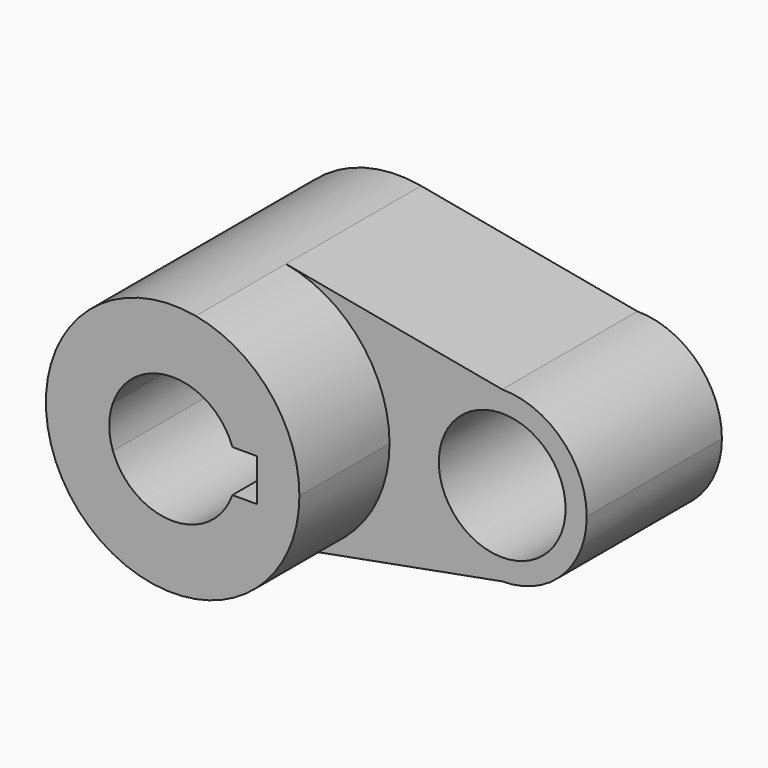
from build123d import *

# Parameters (mm, degrees)
F0_R     = 14.2875
F1_DEPTH = 38.1
F2_DEPTH = 63.5


with BuildPart() as f1:
    # F0 (on Front) → F1 (new body)
    with BuildSketch(Plane.XZ):
        with BuildLine():
            ThreePointArc((5.211817, -28.095686), (21.971098, -18.270235), (28.575, 0))
            ThreePointArc((28.575, 0), (21.971098, 18.270235), (5.211817, 28.095686))
            ThreePointArc((5.211817, 28.095686), (-28.575, 0), (5.211817, -28.095686))
        make_face()
        with BuildLine():
            ThreePointArc((-13.470384, 4.7625), (0, 14.2875), (13.470384, 4.7625))
            Line((13.470384, 4.7625), (19.05, 4.7625))
            Line((19.05, 4.7625), (19.05, -4.7625))
            Line((19.05, -4.7625), (13.470384, -4.7625))
            ThreePointArc((13.470384, -4.7625), (0, -14.2875), (-13.470384, -4.7625))
            Line((-13.470384, -4.7625), (-19.05, -4.7625))
            Line((-19.05, -4.7625), (-19.05, 4.7625))
            Line((-19.05, 4.7625), (-13.470384, 4.7625))
        make_face(mode=Mode.SUBTRACT)
        with BuildLine():
            ThreePointArc((5.211817, 28.095686), (21.971098, 18.270235), (28.575, 0))
            ThreePointArc((28.575, 0), (21.971098, -18.270235), (5.211817, -28.095686))
            Line((5.211817, -28.095686), (53.975, -19.05))
            ThreePointArc((53.975, -19.05), (34.925, 0), (53.975, 19.05))
            Line((53.975, 19.05), (5.211817, 28.095686))
        make_face()
        with BuildLine():
            ThreePointArc((73.025, 0), (67.445384, 13.470384), (53.975, 19.05))
            ThreePointArc((53.975, 19.05), (34.925, 0), (53.975, -19.05))
            ThreePointArc((53.975, -19.05), (67.445384, -13.470384), (73.025, 0))
        make_face()
        with Locations((53.975, 0)):
            Circle(F0_R, mode=Mode.SUBTRACT)
        with BuildLine():
            ThreePointArc((-13.470384, -4.7625), (-14.2875, 0), (-13.470384, 4.7625))
            Line((-13.470384, 4.7625), (-19.05, 4.7625))
            Line((-19.05, 4.7625), (-19.05, -4.7625))
            Line((-19.05, -4.7625), (-13.470384, -4.7625))
        make_face()
    extrude(amount=F1_DEPTH)

    # F0 (on Front) → F2 (join)
    with BuildSketch(Plane.XZ):
        with BuildLine():
            ThreePointArc((5.211817, -28.095686), (21.971098, -18.270235), (28.575, 0))
            ThreePointArc((28.575, 0), (21.971098, 18.270235), (5.211817, 28.095686))
            ThreePointArc((5.211817, 28.095686), (-28.575, 0), (5.211817, -28.095686))
        make_face()
        with BuildLine():
            ThreePointArc((-13.470384, 4.7625), (0, 14.2875), (13.470384, 4.7625))
            Line((13.470384, 4.7625), (19.05, 4.7625))
            Line((19.05, 4.7625), (19.05, -4.7625))
            Line((19.05, -4.7625), (13.470384, -4.7625))
            ThreePointArc((13.470384, -4.7625), (0, -14.2875), (-13.470384, -4.7625))
            Line((-13.470384, -4.7625), (-19.05, -4.7625))
            Line((-19.05, -4.7625), (-19.05, 4.7625))
            Line((-19.05, 4.7625), (-13.470384, 4.7625))
        make_face(mode=Mode.SUBTRACT)
        with BuildLine():
            ThreePointArc((-13.470384, -4.7625), (-14.2875, 0), (-13.470384, 4.7625))
            Line((-13.470384, 4.7625), (-19.05, 4.7625))
            Line((-19.05, 4.7625), (-19.05, -4.7625))
            Line((-19.05, -4.7625), (-13.470384, -4.7625))
        make_face()
    extrude(amount=F2_DEPTH)


solid = f1.part
